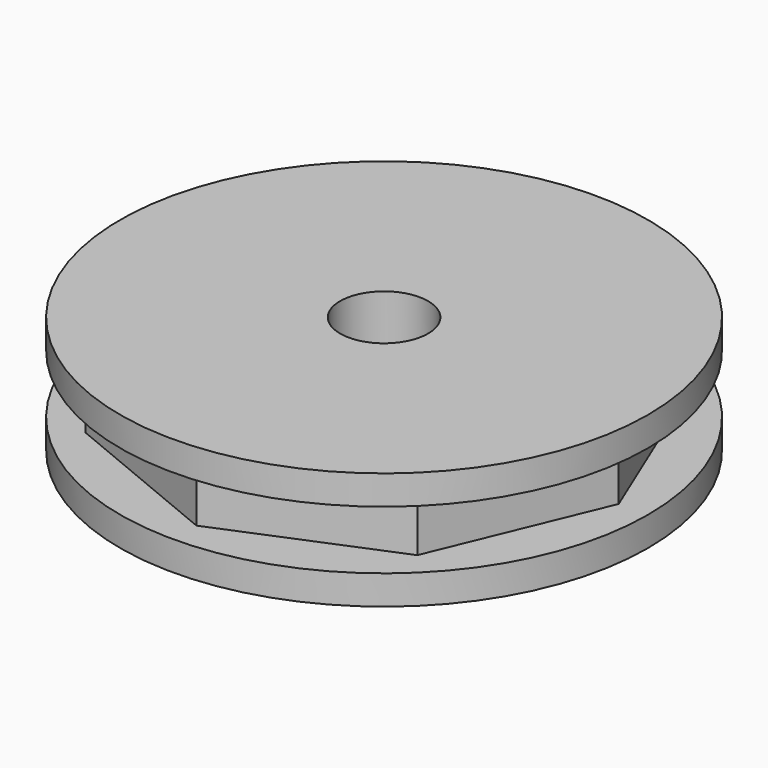
from build123d import *

# Parameters (mm, degrees)
PAD_DEPTH    = 2
SKETCH001_R  = 9
PAD001_DEPTH = 1
SKETCH002_R  = 9
PAD002_DEPTH = 1
SKETCH003_R  = 1.5
POCKET_DEPTH = 5


with BuildPart() as part:
    # Sketch → Pad (new body)
    with BuildSketch(Plane.XY):
        Polygon((0, 8), (-5.656854, 5.656854), (-8, 0), (-5.656854, -5.656854), (0, -8), (5.656854, -5.656854), (8, 0), (5.656854, 5.656854), align=None)
    extrude(amount=PAD_DEPTH)

    # Sketch001 (on Face10 of Pad) → Pad001 (join)
    with BuildSketch(Plane.XY.offset(2)):
        Circle(SKETCH001_R)
    extrude(amount=PAD001_DEPTH)

    # Sketch002 (on Face12 of Pad001) → Pad002 (join)
    with BuildSketch(Plane(origin=(0, 0, 0), x_dir=(1, 0, 0), z_dir=(0, 0, -1))):
        Circle(SKETCH002_R)
    extrude(amount=PAD002_DEPTH)

    # Sketch003 (on Face3 of Pad002) → Pocket (cut)
    with BuildSketch(Plane(origin=(0, 0, -1), x_dir=(1, 0, 0), z_dir=(0, 0, -1))):
        Circle(SKETCH003_R)
    extrude(amount=-POCKET_DEPTH, mode=Mode.SUBTRACT)


solid = part.part
